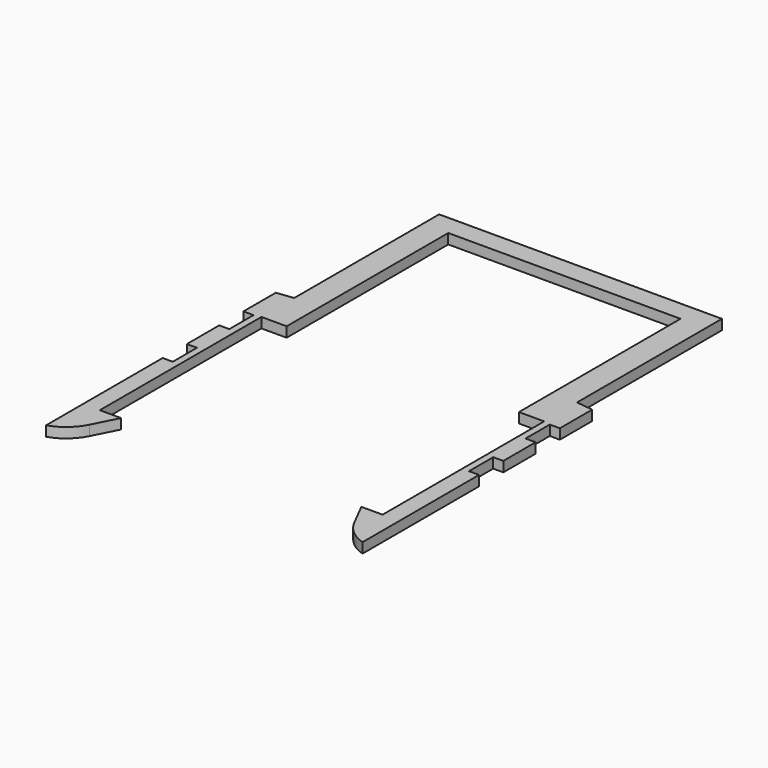
from build123d import *

# Parameters (mm, degrees)
F1_DEPTH = 3.175


with BuildPart() as f1:
    # F0 (on Top) → F1 (new body)
    with BuildSketch(Plane.XY):
        with BuildLine():
            Line((-36.5125, 38.1), (-36.5125, 51.60265671))
            ThreePointArc((-36.5125, 51.60265671), (-40.4848830959, 51.3369051515), (-44.45, 50.9787162513))
            Line((-44.45, 50.9787162513), (-44.45, 38.1))
            Line((-44.45, 38.1), (-36.5125, 38.1))
        make_face()
        with BuildLine():
            ThreePointArc((-44.45, 50.9787162513), (-40.4848830959, 51.3369051515), (-36.5125, 51.60265671))
            Line((-36.5125, 51.60265671), (-36.5125, 101.6))
            Line((-36.5125, 101.6), (36.5125, 101.6))
            Line((36.5125, 101.6), (36.5125, 51.60265671))
            ThreePointArc((36.5125, 51.60265671), (40.4848830959, 51.3369051515), (44.45, 50.9787162513))
            Line((44.45, 50.9787162513), (44.45, 107.95))
            Line((44.45, 107.95), (-44.45, 107.95))
            Line((-44.45, 107.95), (-44.45, 50.9787162513))
        make_face()
        with BuildLine():
            ThreePointArc((44.45, 50.9787162513), (40.4848830959, 51.3369051515), (36.5125, 51.60265671))
            Line((36.5125, 51.60265671), (36.5125, 38.1))
            Line((36.5125, 38.1), (44.45, 38.1))
            Line((44.45, 38.1), (44.45, 50.9787162513))
        make_face()
        with BuildLine():
            Line((-44.45, 38.1), (-44.45, 50.9787162513))
            ThreePointArc((-44.45, 50.9787162513), (-47.0968073958, 50.687662483), (-49.7387601656, 50.3554167177))
            Line((-49.7387601656, 50.3554167177), (-49.7387601656, 37.6554167177))
            Line((-49.7387601656, 37.6554167177), (-46.5637601656, 37.6554167177))
            Line((-46.5637601656, 37.6554167177), (-46.5637601656, 28.1304167177))
            Line((-46.5637601656, 28.1304167177), (-49.7387601656, 28.1304167177))
            Line((-49.7387601656, 28.1304167177), (-49.7387601656, 15.4304167177))
            Line((-49.7387601656, 15.4304167177), (-46.5637601656, 15.4304167177))
            Line((-46.5637601656, 15.4304167177), (-46.5637601656, 5.9054167177))
            Line((-46.5637601656, 5.9054167177), (-49.7387601656, 5.9054167177))
            Line((-49.7387601656, 5.9054167177), (-49.7387601656, -39.9088373944))
            ThreePointArc((-49.7387601656, -39.9088373944), (-44.9970348608, -37.2776453916), (-41.6393822328, -33.0193242376))
            Line((-41.6393822328, -33.0193242376), (-37.7745075115, -25.4))
            Line((-37.7745075115, -25.4), (-44.45, -25.4))
            Line((-44.45, -25.4), (-44.45, 38.1))
        make_face()
        with BuildLine():
            ThreePointArc((49.7387601656, 50.3554167177), (47.0968073958, 50.687662483), (44.45, 50.9787162513))
            Line((44.45, 50.9787162513), (44.45, 38.1))
            Line((44.45, 38.1), (44.45, -25.4))
            Line((44.45, -25.4), (37.7745075115, -25.4))
            Line((37.7745075115, -25.4), (41.6393822328, -33.0193242376))
            ThreePointArc((41.6393822328, -33.0193242376), (44.9970348608, -37.2776453916), (49.7387601656, -39.9088373944))
            Line((49.7387601656, -39.9088373944), (49.7387601656, 5.9054167177))
            Line((49.7387601656, 5.9054167177), (46.5637601656, 5.9054167177))
            Line((46.5637601656, 5.9054167177), (46.5637601656, 15.4304167177))
            Line((46.5637601656, 15.4304167177), (49.7387601656, 15.4304167177))
            Line((49.7387601656, 15.4304167177), (49.7387601656, 28.1304167177))
            Line((49.7387601656, 28.1304167177), (46.5637601656, 28.1304167177))
            Line((46.5637601656, 28.1304167177), (46.5637601656, 37.6554167177))
            Line((46.5637601656, 37.6554167177), (49.7387601656, 37.6554167177))
            Line((49.7387601656, 37.6554167177), (49.7387601656, 50.3554167177))
        make_face()
    extrude(amount=F1_DEPTH)


solid = f1.part
